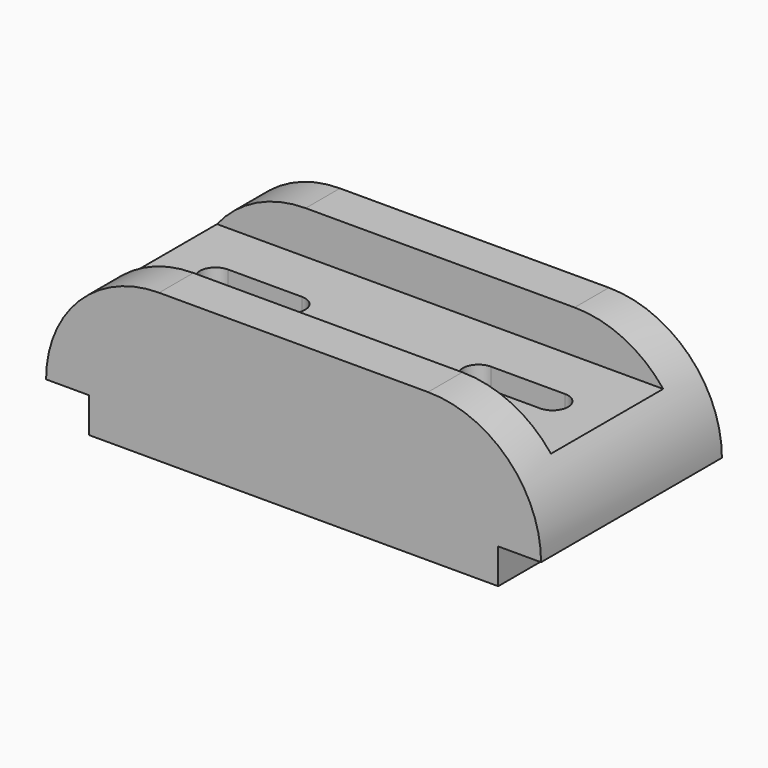
from build123d import *

# Parameters (mm, degrees)
F0_W     = 127
F0_H     = 38
F1_DEPTH = 58
F2_R     = 29
F3_W     = 11
F3_H     = 9
F4_DEPTH = 58.001
F5_W     = 36
F5_H     = 11
F6_DEPTH = 127.001
F8_DEPTH = 27.001


with BuildPart() as f1:
    # F0 (on Front) → F1 (new body)
    with BuildSketch(Plane.XZ):
        with Locations((63.5, 19)):
            Rectangle(F0_W, F0_H)
    extrude(amount=F1_DEPTH)

    # F2
    f2_edges = [f1.edges().sort_by_distance(p)[0] for p in [
        (0, -29, 38),
        (127, -29, 38),
    ]]
    fillet(f2_edges, radius=F2_R)

    # F3 (on Front) → F4 (cut, through all)
    with BuildSketch(Plane.XZ):
        with Locations((5.5, 4.5)):
            Rectangle(F3_W, F3_H)
        with Locations((121.5, 4.5)):
            Rectangle(F3_W, F3_H)
    extrude(amount=F4_DEPTH, mode=Mode.SUBTRACT)

    # F5 (on Right) → F6 (cut, through all)
    with BuildSketch(Plane.YZ):
        with Locations((-29, 32.5)):
            Rectangle(F5_W, F5_H)
    extrude(amount=F6_DEPTH, mode=Mode.SUBTRACT)

    # F7 (on face) → F8 (cut, through all)
    with BuildSketch(Plane.XY.offset(27)):
        with BuildLine():
            Line((39.262366, -25), (20.262366, -25))
            ThreePointArc((20.262366, -25), (16.262366, -29), (20.262366, -33))
            Line((20.262366, -33), (39.262366, -33))
            ThreePointArc((39.262366, -33), (43.262366, -29), (39.262366, -25))
        make_face()
        with BuildLine():
            Line((106.737634, -25), (87.737634, -25))
            ThreePointArc((87.737634, -25), (83.737634, -29), (87.737634, -33))
            Line((87.737634, -33), (106.737634, -33))
            ThreePointArc((106.737634, -33), (110.737634, -29), (106.737634, -25))
        make_face()
    extrude(amount=-F8_DEPTH, mode=Mode.SUBTRACT)


solid = f1.part
